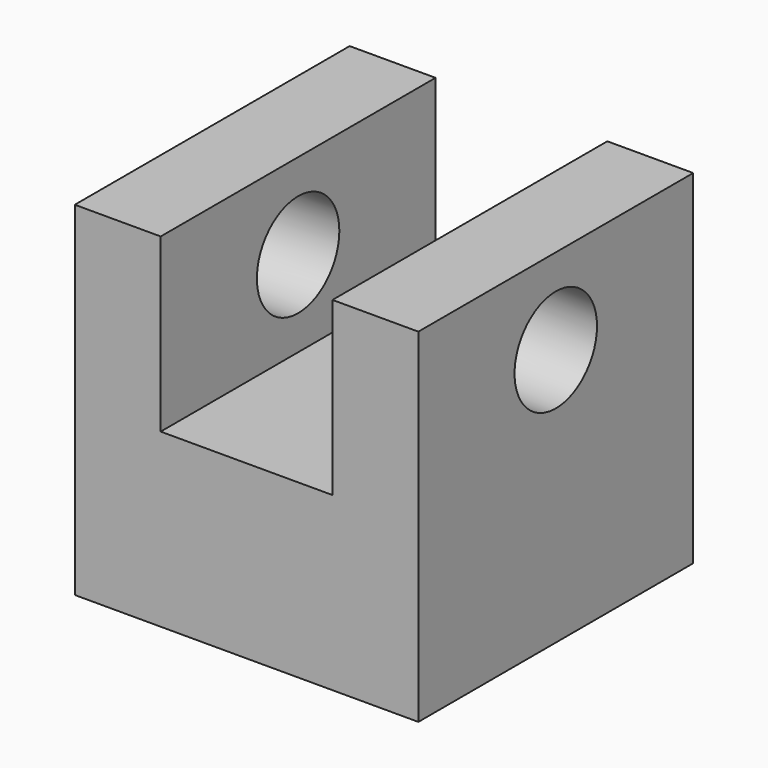
from build123d import *

# Parameters (mm, degrees)
F1_DEPTH      = 5
F2_R          = 1.5
F3_DEPTH      = 2.501
F3_DEPTH_BACK = 7.501


with BuildPart() as f1:
    # F0 (on Front) → F1 (new body, symmetric)
    with BuildSketch(Plane.XZ):
        Polygon((-5, 0), (0, 0), (0, 5), (-2.5, 5), (-2.5, 10), (-5, 10), align=None)
        Polygon((0, 5), (0, 0), (5, 0), (5, 10), (2.5, 10), (2.5, 5), align=None)
    extrude(amount=F1_DEPTH, both=True)

    # F2 (on face) → F3 (cut, two sides)
    with BuildSketch(Plane.YZ.offset(-2.5)) as f3_sk:
        with Locations((0, 7.5)):
            Circle(F2_R)
    extrude(amount=-F3_DEPTH, mode=Mode.SUBTRACT)
    extrude(f3_sk.sketch, amount=F3_DEPTH_BACK, mode=Mode.SUBTRACT)


solid = f1.part
